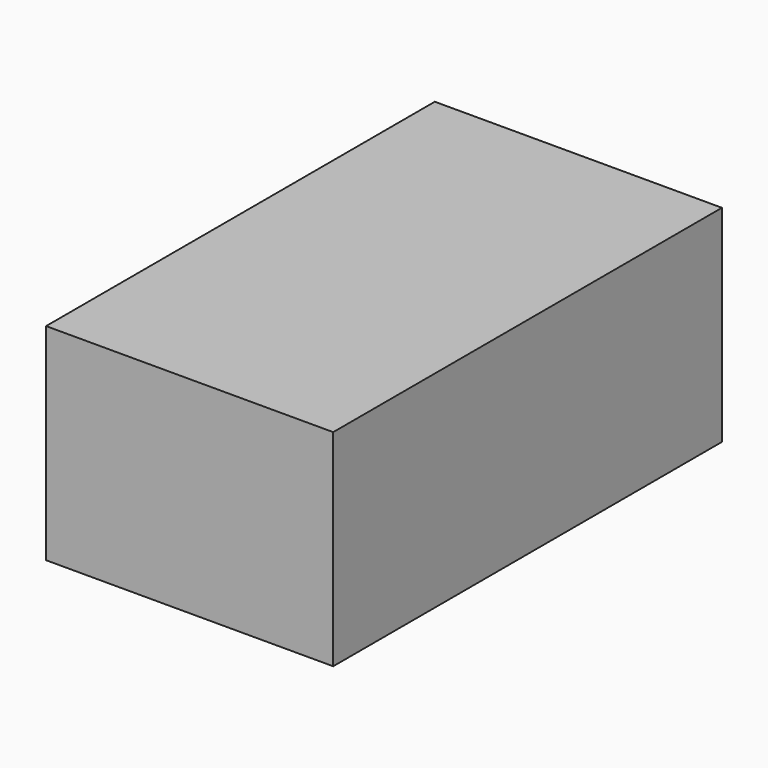
from build123d import *

# Parameters (mm, degrees)
BOX003_W     = 33
BOX003_H     = 62
BOX003_DEPTH = 26
BOX001_W     = 39
BOX001_H     = 66
BOX001_DEPTH = 28


with BuildPart() as body_in:
    # Box003 → Box003 (new body)
    with BuildSketch(Plane(origin=(-1.5, -30, -18), x_dir=(1, 0, 0), z_dir=(0, 0, 1))):
        with Locations((16.5, 31)):
            Rectangle(BOX003_W, BOX003_H)
    extrude(amount=BOX003_DEPTH)


with BuildPart() as body:
    # Box001 → Box001 (new body)
    with BuildSketch(Plane(origin=(-4.5, -32, -18), x_dir=(1, 0, 0), z_dir=(0, 0, 1))):
        with Locations((19.5, 33)):
            Rectangle(BOX001_W, BOX001_H)
    extrude(amount=BOX001_DEPTH)

    # Cut: cut Body_in
    add(body_in.part, mode=Mode.SUBTRACT)


solid = body.part
